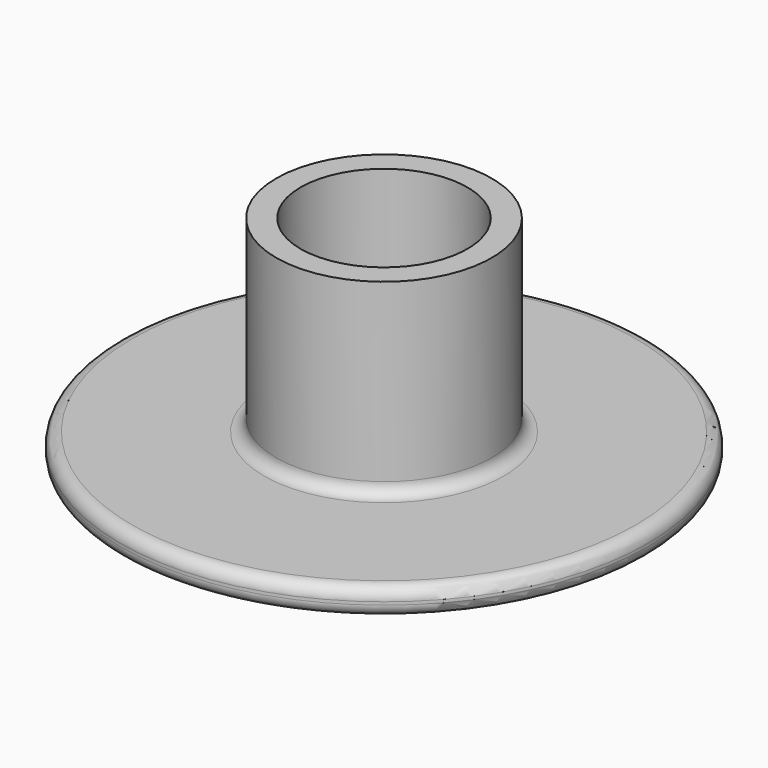
from build123d import *


with BuildPart() as f1:
    # F0 (on Front) → F1 (revolve)
    with BuildSketch(Plane.XZ):
        with BuildLine():
            Line((-9.0625, 0), (-3.875, 0))
            ThreePointArc((-3.875, 0), (-3.256282, 0.256282), (-3, 0.875))
            Line((-3, 0.875), (-3, 7.75))
            Line((-3, 7.75), (-3.875, 7.75))
            Line((-3.875, 7.75), (-3.875, 1.419101))
            ThreePointArc((-3.875, 1.419101), (-4.003141, 1.109741), (-4.3125, 0.981601))
            Line((-4.3125, 0.981601), (-9.0625, 0.981601))
            ThreePointArc((-9.0625, 0.981601), (-9.371859, 0.85346), (-9.5, 0.544101))
            Line((-9.5, 0.544101), (-9.5, 0.4375))
            ThreePointArc((-9.5, 0.4375), (-9.371859, 0.128141), (-9.0625, 0))
        make_face()
    revolve(axis=Axis((0, 0, 3.875), (0, 0, 1)))


solid = f1.part
